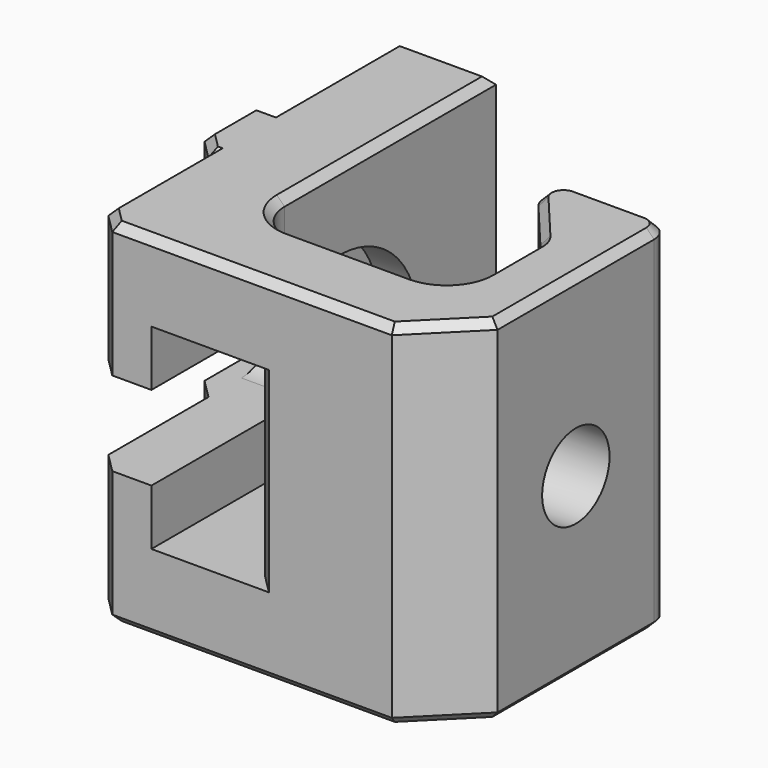
from build123d import *

# Parameters (mm, degrees)
PAD_DEPTH       = 18
CHAMFER_SIZE    = 0.99
FILLET_R        = 2
FILLET001_R     = 1
CHAMFER001_SIZE = 3
CHAMFER002_SIZE = 1
CHAMFER003_SIZE = 0.4
POCKET_DEPTH    = 9
SKETCH002_R     = 2.15
POCKET001_DEPTH = 5
SKETCH003_W     = 5
SKETCH003_H     = 10
POCKET002_DEPTH = 9.5
POCKET003_DEPTH = 2
SKETCH005_W     = 6
SKETCH005_H     = 4.3
POCKET004_DEPTH = 1
CHAMFER004_SIZE = 1


with BuildPart() as part:
    # Sketch → Pad (new body)
    with BuildSketch(Plane.XY):
        Polygon((0, 0), (0, 7.4), (-1, 7.4), (-1, 11.6), (0, 11.6), (0, 19.5), (5, 19.5), (5, 4), (15.275948, 4), (15.275948, 9.5), (11.5, 14), (18.275948, 14), (18.275948, 0), align=None)
    extrude(amount=PAD_DEPTH)

    # Chamfer
    chamfer_edges = [part.edges().sort_by_distance(p)[0] for p in [
        (-1, 7.4, 9),
    ]]
    chamfer(chamfer_edges, length=CHAMFER_SIZE)

    # Fillet
    fillet_edges = [part.edges().sort_by_distance(p)[0] for p in [
        (5, 4, 9),
        (15.275948, 4, 9),
    ]]
    fillet(fillet_edges, radius=FILLET_R)

    # Fillet001
    fillet001_edges = [part.edges().sort_by_distance(p)[0] for p in [
        (11.5, 14, 9),
        (15.275948, 9.5, 9),
        (18.275948, 14, 9),
    ]]
    fillet(fillet001_edges, radius=FILLET001_R)

    # Chamfer001
    chamfer001_edges = [part.edges().sort_by_distance(p)[0] for p in [
        (18.275948, 0, 9),
    ]]
    chamfer(chamfer001_edges, length=CHAMFER001_SIZE)

    # Chamfer002
    chamfer002_edges = [part.edges().sort_by_distance(p)[0] for p in [
        (0, 0, 9),
    ]]
    chamfer(chamfer002_edges, length=CHAMFER002_SIZE)

    # Chamfer003
    chamfer003_edges = [part.edges().sort_by_distance(p)[0] for p in [
        (8.137974, 0, 18),
        (0.5, 0.5, 18),
        (16.775948, 1.5, 18),
        (0, 4.2, 18),
        (18.275948, 8, 18),
        (-0.005, 7.4, 18),
        (17.983055, 13.707107, 18),
        (-0.505, 7.895, 18),
        (15.460228, 14, 18),
        (-1, 9.995, 18),
        (12.738199, 13.422618, 18),
        (-0.5, 11.6, 18),
        (13.960228, 11.068015, 18),
        (0, 15.55, 18),
        (15.215641, 9.47805, 18),
        (2.5, 19.5, 18),
        (15.275948, 7.568015, 18),
        (5, 12.75, 18),
        (14.690162, 4.585786, 18),
        (5.585786, 4.585786, 18),
        (10.137974, 4, 18),
        (8.137974, 0, 0),
        (0.5, 0.5, 0),
        (16.775948, 1.5, 0),
        (0, 4.2, 0),
        (18.275948, 8, 0),
        (-0.005, 7.4, 0),
        (17.983055, 13.707107, 0),
        (-0.505, 7.895, 0),
        (15.460228, 14, 0),
        (-1, 9.995, 0),
        (12.738199, 13.422618, 0),
        (-0.5, 11.6, 0),
        (13.960228, 11.068015, 0),
        (0, 15.55, 0),
        (15.215641, 9.47805, 0),
        (2.5, 19.5, 0),
        (15.275948, 7.568015, 0),
        (5, 12.75, 0),
        (14.690162, 4.585786, 0),
        (5.585786, 4.585786, 0),
        (10.137974, 4, 0),
    ]]
    chamfer(chamfer003_edges, length=CHAMFER003_SIZE)

    # Sketch001 (on Face33 of Clone) → Pocket (cut)
    with BuildSketch(Plane(origin=(-1, 0, 0), x_dir=(0, -1, 0), z_dir=(-1, 0, 0))):
        with BuildLine():
            ThreePointArc((-9.5, 11.15), (-11.65, 9), (-9.5, 6.85))
            Line((0, 6.85), (-9.5, 6.85))
            Line((0, 6.85), (0, 11.15))
            Line((0, 11.15), (-9.5, 11.15))
        make_face()
    extrude(amount=-POCKET_DEPTH, mode=Mode.SUBTRACT)

    # Sketch002 (on Face26 of Pocket) → Pocket001 (cut)
    with BuildSketch(Plane.YZ.offset(18.275948)):
        with Locations((8, 9)):
            Circle(SKETCH002_R)
    extrude(amount=-POCKET001_DEPTH, mode=Mode.SUBTRACT)

    # Sketch003 (on Face23 of Pocket001) → Pocket002 (cut)
    with BuildSketch(Plane.XZ):
        with Locations((5.5, 9)):
            Rectangle(SKETCH003_W, SKETCH003_H)
    extrude(amount=-POCKET002_DEPTH, mode=Mode.SUBTRACT)

    # Sketch004 (on Face41 of Pocket002) → Pocket003 (cut)
    with BuildSketch(Plane.YZ.offset(5)):
        with BuildLine():
            ThreePointArc((9.5, 4), (14.5, 9), (9.5, 14))
            Line((9.5, 14), (9.5, 4))
        make_face()
    extrude(amount=-POCKET003_DEPTH, mode=Mode.SUBTRACT)

    # Sketch005 (on Face33 of Pocket003) → Pocket004 (cut)
    with BuildSketch(Plane(origin=(-1, 0, 0), x_dir=(0, -1, 0), z_dir=(-1, 0, 0))):
        with Locations((-10.4, 9)):
            Rectangle(SKETCH005_W, SKETCH005_H)
    extrude(amount=-POCKET004_DEPTH, mode=Mode.SUBTRACT)

    # Chamfer004
    chamfer004_edges = [part.edges().sort_by_distance(p)[0] for p in [
        (8, 4, 9),
        (8, 0, 9),
    ]]
    chamfer(chamfer004_edges, length=CHAMFER004_SIZE)


solid = part.part
